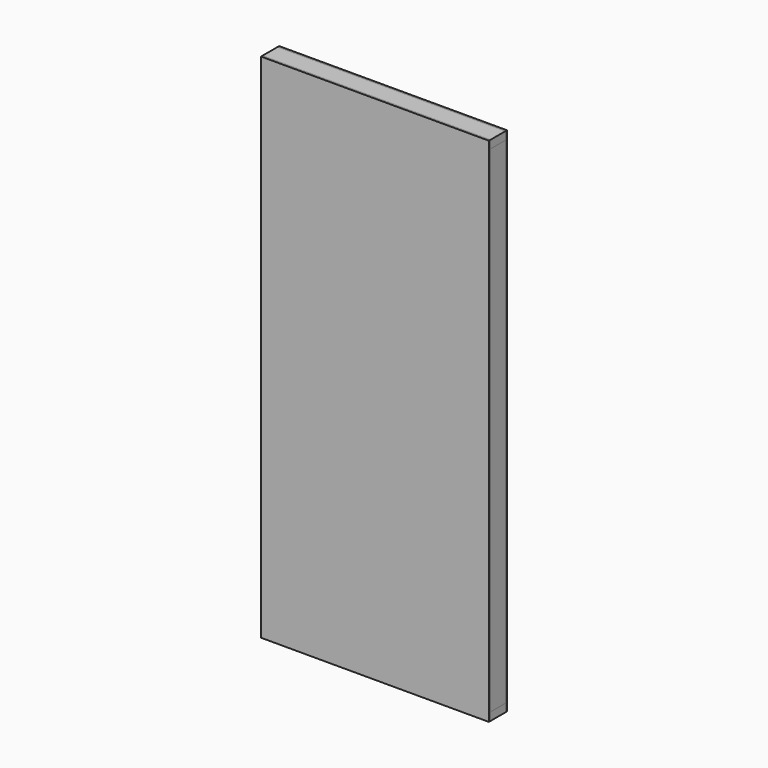
from build123d import *

# Parameters (mm, degrees)
F0_W     = 1085.85
F0_H     = 88.9
F1_DEPTH = 38.1
F2_W     = 38.1
F2_H     = 88.9
F3_DEPTH = 2362.2
F4_W     = 1085.85
F4_H     = 88.9
F5_DEPTH = 38.1
F6_W     = 1085.85
F6_H     = 2438.4
F7_DEPTH = 9.525


with BuildPart() as f1:
    # F0 (on Top) → F1 (new body)
    with BuildSketch(Plane.XY):
        with Locations((542.925, -44.45)):
            Rectangle(F0_W, F0_H)
    extrude(amount=F1_DEPTH)


with BuildPart() as f3:
    # F2 (on face) → F3 (new body)
    with BuildSketch(Plane.XY.offset(38.1)):
        with Locations((19.05, -44.45)):
            Rectangle(F2_W, F2_H)
    extrude(amount=F3_DEPTH)


with BuildPart() as f3b:
    # F2 (on face) → F3, piece 2 (new body)
    with BuildSketch(Plane.XY.offset(38.1)):
        with Locations((1066.8, -44.45)):
            Rectangle(F2_W, F2_H)
    extrude(amount=F3_DEPTH)


with BuildPart() as f5:
    # F4 (on face) → F5 (new body)
    with BuildSketch(Plane.XY.offset(2400.3)):
        with Locations((542.925, -44.45)):
            Rectangle(F4_W, F4_H)
    extrude(amount=F5_DEPTH)


with BuildPart() as f7:
    # F6 (on face) → F7 (new body)
    with BuildSketch(Plane.XZ.offset(88.9)):
        with Locations((542.925, 1219.2)):
            Rectangle(F6_W, F6_H)
    extrude(amount=F7_DEPTH)


with BuildPart() as f12_1:
    # F12: instance of F7
    add(f7.part.mirror(Plane(origin=(1085.85, -44.45, 2438.4), x_dir=(0, 0, -1), z_dir=(0, -1, 0))))


solid = Compound([f1.part, f3.part, f3b.part, f5.part, f7.part, f12_1.part])
